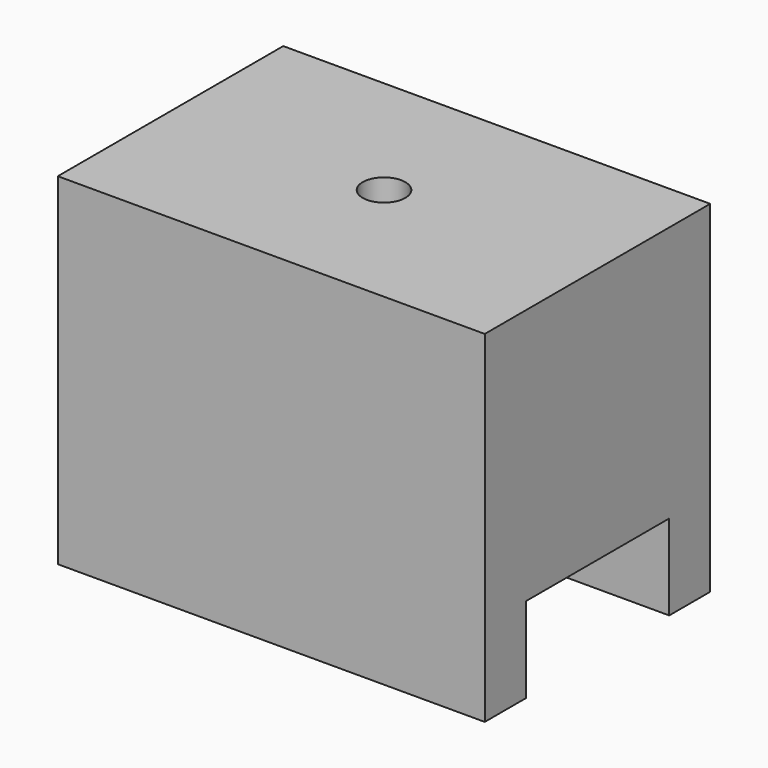
from build123d import *

# Parameters (mm, degrees)
F0_W     = 25
F0_H     = 3
F0_H_2   = 10.5
F1_DEPTH = 20
F2_DEPTH = 5
F3_R     = 1.25
F4_DEPTH = 20.001


with BuildPart() as f1:
    # F0 (on Top) → F1 (new body)
    with BuildSketch(Plane.XY):
        with Locations((0, 6.75)):
            Rectangle(F0_W, F0_H)
        Rectangle(F0_W, F0_H_2)
        with Locations((0, -6.75)):
            Rectangle(F0_W, F0_H)
    extrude(amount=F1_DEPTH)

    # F0 (on Top) → F2 (cut)
    with BuildSketch(Plane.XY):
        Rectangle(F0_W, F0_H_2)
    extrude(amount=F2_DEPTH, mode=Mode.SUBTRACT)

    # F3 (on face) → F4 (cut, through all)
    with BuildSketch(Plane.XY.offset(20)):
        Circle(F3_R)
    extrude(amount=-F4_DEPTH, mode=Mode.SUBTRACT)


solid = f1.part
